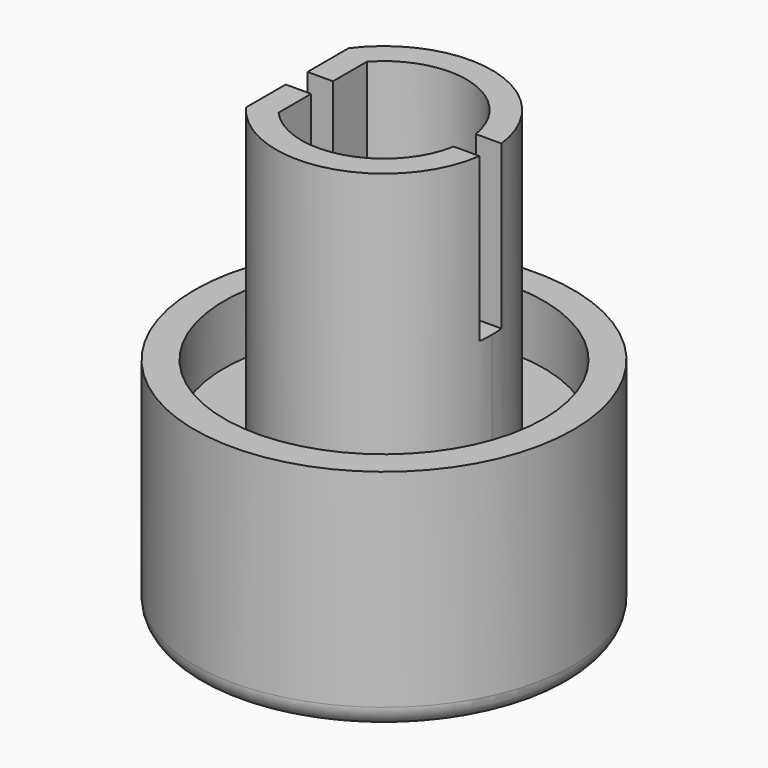
from build123d import *

# Parameters (mm, degrees)
F0_R           = 8.95
F1_DEPTH       = 8
F2_R           = 8.95
F2_R_2         = 7.55
F3_DEPTH       = 2.8
F5_DEPTH       = 13.2
F6_R           = 1
F8_DEPTH       = 7.7
F9_W           = 1.29
F9_H           = 7.7
F10_DEPTH      = 1.5
F10_DEPTH_BACK = 8


with BuildPart() as f1:
    # F0 (on Top) → F1 (new body)
    with BuildSketch(Plane.XY):
        Circle(F0_R)
    extrude(amount=F1_DEPTH)

    # F2 (on face) → F3 (join)
    with BuildSketch(Plane.XY.offset(8)):
        Circle(F2_R)
        Circle(F2_R_2, mode=Mode.SUBTRACT)
    extrude(amount=F3_DEPTH)

    # F4 (on face) → F5 (join)
    with BuildSketch(Plane.XY.offset(8)):
        with BuildLine():
            ThreePointArc((-4.1, -3.0331501776), (1.5968719423, -4.8435524153), (5.1, 0))
            ThreePointArc((5.1, 0), (1.5968719423, 4.8435524153), (-4.1, 3.0331501776))
            Line((-4.1, 3.0331501776), (-4.1, -3.0331501776))
        make_face()
    extrude(amount=F5_DEPTH)

    # F6
    f6_edges = [f1.edges().sort_by_distance(p)[0] for p in [
        (-8.95, 0, 0),
    ]]
    fillet(f6_edges, radius=F6_R)

    # F7 (on face) → F8 (cut)
    with BuildSketch(Plane.XY.offset(21.2)):
        with BuildLine():
            Line((-2.9, 2.6076809621), (-2.9, -2.6076809621))
            ThreePointArc((-2.9, -2.6076809621), (3.9, 0), (-2.9, 2.6076809621))
        make_face()
    extrude(amount=-F8_DEPTH, mode=Mode.SUBTRACT)

    # F9 (on face) → F10 (cut, two sides)
    with BuildSketch(Plane.YZ.offset(-2.9)) as f10_sk:
        with Locations((-0.0373190379, 17.35)):
            Rectangle(F9_W, F9_H)
    extrude(amount=-F10_DEPTH, mode=Mode.SUBTRACT)
    extrude(f10_sk.sketch, amount=F10_DEPTH_BACK, mode=Mode.SUBTRACT)


solid = f1.part
